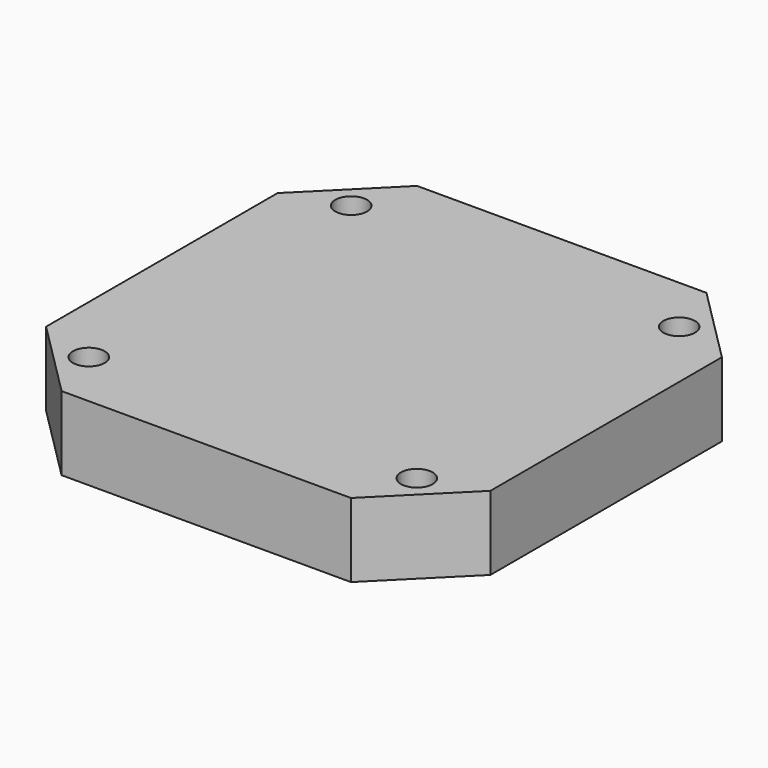
from build123d import *

# Parameters (mm, degrees)
F0_W     = 42
F0_H     = 42
F1_DEPTH = 7
F2_SIZE  = 7.325
F3_D     = 3


with BuildPart() as f1:
    # F0 (on Top) → F1 (new body)
    with BuildSketch(Plane.XY):
        Rectangle(F0_W, F0_H)
    extrude(amount=F1_DEPTH)

    # F2
    f2_edges = [f1.edges().sort_by_distance(p)[0] for p in [
        (-21, -21, 3.5),
        (21, -21, 3.5),
        (21, 21, 3.5),
        (-21, 21, 3.5),
    ]]
    chamfer(f2_edges, length=F2_SIZE)

    # F3 (through all)
    with Locations(Plane(origin=(0, 0, 0), x_dir=(1, 0, 0), z_dir=(0, 0, -1))):
        with Locations((15.5, 15.5), (-15.5, 15.5), (-15.5, -15.5), (15.5, -15.5)):
            Hole(F3_D / 2)


solid = f1.part
